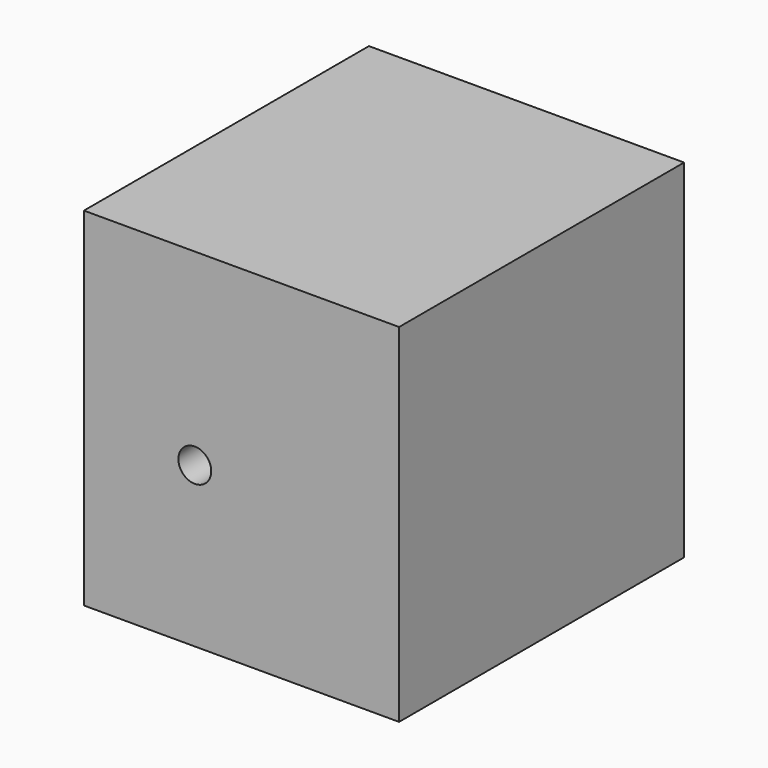
from build123d import *

# Parameters (mm, degrees)
F0_W     = 64.7547245026
F0_H     = 71.4314524084
F1_DEPTH = 73.2
F3_D     = 6.7564
F3_DEPTH = 9
F3_TIP   = 2.0298273432


with BuildPart() as f1:
    # F0 (on Front) → F1 (new body)
    with BuildSketch(Plane.XZ):
        with Locations((-67.4249976873, 10.5769271031)):
            Rectangle(F0_W, F0_H)
    extrude(amount=F1_DEPTH)

    # F3
    with Locations(Plane.XZ.offset(73.2)):
        with Locations((-77.0179480314, 7.6512936503)):
            Hole(F3_D / 2, depth=F3_DEPTH)
            with Locations((0, 0, -(F3_DEPTH + F3_TIP / 2))):  # 118° drill point
                Cone(0, F3_D / 2, F3_TIP, mode=Mode.SUBTRACT)


solid = f1.part
